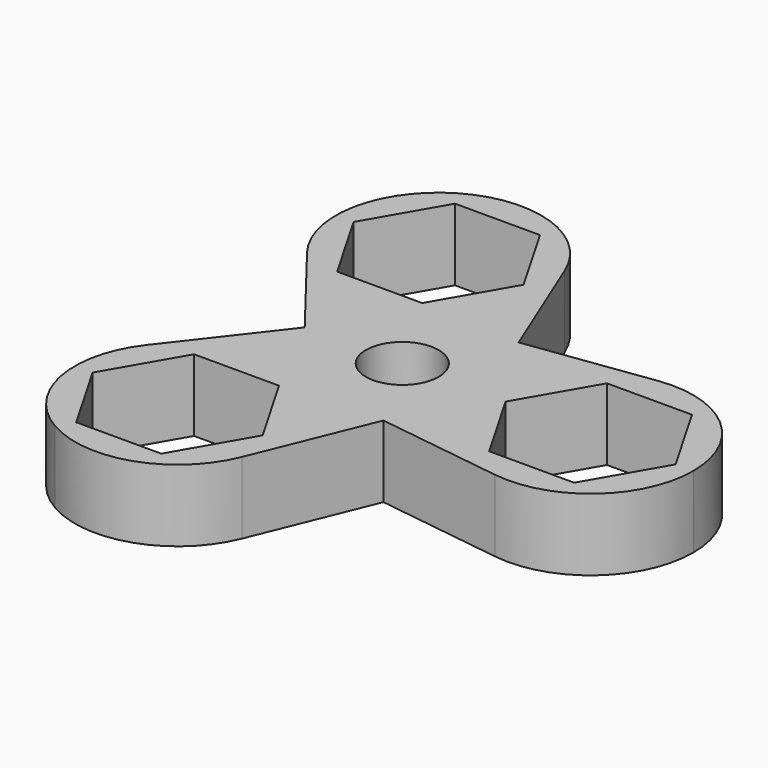
from build123d import *

# Parameters (mm, degrees)
F1_DEPTH = 10.668
F3_COUNT = 3
F4_R     = 6.223
F5_DEPTH = 2.54
F6_R     = 5.3975
F7_DEPTH = 25.4


with BuildPart() as f1:
    # F0 (on Top) → F1 (new body)
    with BuildSketch(Plane.XY):
        with BuildLine():
            ThreePointArc((-1.558636, 11.323231), (7.510982, 8.615687), (11.43, 0))
            ThreePointArc((11.43, 0), (7.510982, -8.615687), (-1.558636, -11.323231))
            Line((-1.558636, -11.323231), (25.861818, -15.097641))
            ThreePointArc((25.861818, -15.097641), (12.7, 0), (25.861818, 15.097641))
            Line((25.861818, 15.097641), (-1.558636, 11.323231))
        make_face()
        with BuildLine():
            ThreePointArc((-1.558636, -11.323231), (7.510982, -8.615687), (11.43, 0))
            ThreePointArc((11.43, 0), (7.510982, 8.615687), (-1.558636, 11.323231))
            ThreePointArc((-1.558636, 11.323231), (-11.43, 0), (-1.558636, -11.323231))
        make_face()
        with BuildLine():
            ThreePointArc((43.18, 0), (37.954642, 11.487582), (25.861818, 15.097641))
            ThreePointArc((25.861818, 15.097641), (12.7, 0), (25.861818, -15.097641))
            ThreePointArc((25.861818, -15.097641), (37.954642, -11.487582), (43.18, 0))
        make_face()
        Polygon((40.551639, 0), (34.24582, -10.922), (21.63418, -10.922), (15.328361, 0), (21.63418, 10.922), (34.24582, 10.922), align=None, mode=Mode.SUBTRACT)
    extrude(amount=F1_DEPTH)

    # F3: F1 ×3 about axis
    f3_axis = Axis((0, 0, 10.668), (0, 0, -1))


with BuildPart() as f1_1:
    add(f1.part)
    for i in range(1, F3_COUNT):
        add(f1.part.rotate(f3_axis, i * 360 / F3_COUNT))

    # F4 (on face) → F5 (cut)
    with BuildSketch(Plane(origin=(0, 0, 0), x_dir=(1, 0, 0), z_dir=(0, 0, -1))):
        Circle(F4_R)
    extrude(amount=-F5_DEPTH, mode=Mode.SUBTRACT)

    # F6 (on face) → F7 (cut)
    with BuildSketch(Plane(origin=(0, 0, 2.54), x_dir=(1, 0, 0), z_dir=(0, 0, -1))):
        Circle(F6_R)
    extrude(amount=-F7_DEPTH, mode=Mode.SUBTRACT)


solid = f1_1.part
